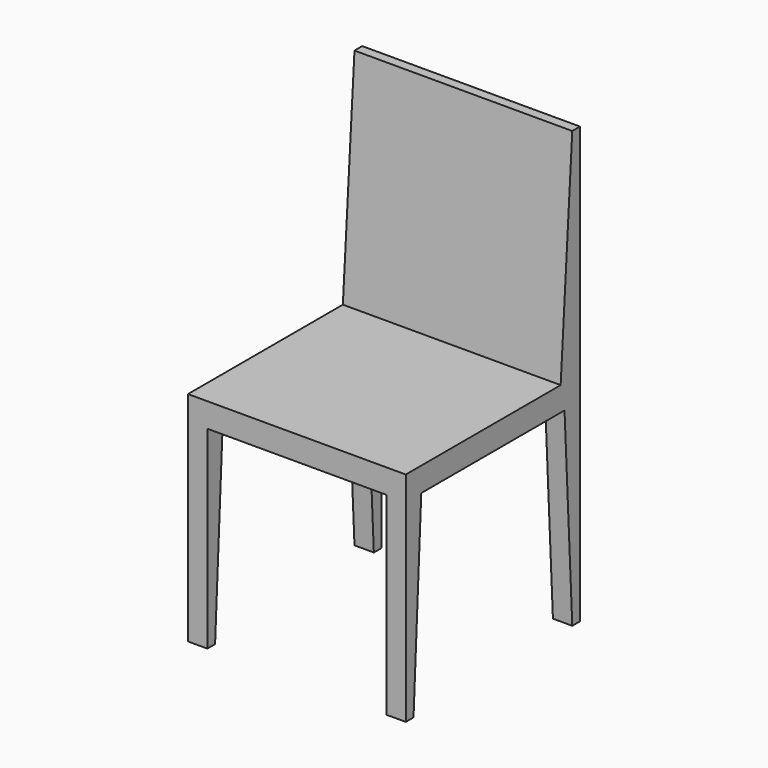
from build123d import *

# Parameters (mm, degrees)
F0_W      = 450
F0_H      = 450
F1_DEPTH  = 50
F2_W      = 40
F2_H      = 40
F3_DEPTH  = 400
F4_W      = 40
F4_H      = 40
F5_DEPTH  = 400
F6_W      = 40
F6_H      = 40
F7_DEPTH  = 400
F8_W      = 40
F8_H      = 40
F9_DEPTH  = 400
F10_W     = 450
F10_H     = 50
F11_DEPTH = 450
F13_DEPTH = 450
F15_DEPTH = 450.001
F17_DEPTH = 450.001
F18_DEPTH = 100
F19_DEPTH = 100
F20_DEPTH = 200
F21_DEPTH = 200


with BuildPart() as f1:
    # F0 (on Top) → F1 (new body)
    with BuildSketch(Plane.XY):
        with Locations((225, 225)):
            Rectangle(F0_W, F0_H)
    extrude(amount=F1_DEPTH)

    # F2 (on face) → F3 (join)
    with BuildSketch(Plane(origin=(0, 0, 0), x_dir=(1, 0, 0), z_dir=(0, 0, -1))):
        with Locations((20, -430)):
            Rectangle(F2_W, F2_H)
    extrude(amount=F3_DEPTH)

    # F4 (on face) → F5 (join)
    with BuildSketch(Plane(origin=(0, 0, 0), x_dir=(1, 0, 0), z_dir=(0, 0, -1))):
        with Locations((20, -20)):
            Rectangle(F4_W, F4_H)
    extrude(amount=F5_DEPTH)

    # F6 (on face) → F7 (join)
    with BuildSketch(Plane(origin=(0, 0, 0), x_dir=(1, 0, 0), z_dir=(0, 0, -1))):
        with Locations((430, -430)):
            Rectangle(F6_W, F6_H)
        with Locations((430, -430)):
            Rectangle(F6_W, F6_H)
    extrude(amount=F7_DEPTH)

    # F8 (on face) → F9 (join)
    with BuildSketch(Plane(origin=(0, 0, 0), x_dir=(1, 0, 0), z_dir=(0, 0, -1))):
        with Locations((430, -20)):
            Rectangle(F8_W, F8_H)
    extrude(amount=F9_DEPTH)

    # F10 (on face) → F11 (join)
    with BuildSketch(Plane.XY.offset(50)):
        with Locations((225, 425)):
            Rectangle(F10_W, F10_H)
    extrude(amount=F11_DEPTH)

    # F12 (on face) → F13 (cut)
    with BuildSketch(Plane.YZ.offset(450)):
        Polygon((400, 500), (400, 50), (430, 500), align=None)
    extrude(amount=-F13_DEPTH, mode=Mode.SUBTRACT)

    # F14 (on face) → F15 (cut, through all)
    with BuildSketch(Plane(origin=(0, 0, 0), x_dir=(0, -1, 0), z_dir=(-1, 0, 0))):
        Polygon((-410, -400), (-410, 0), (-430, -400), align=None)
    extrude(amount=-F15_DEPTH, mode=Mode.SUBTRACT)

    # F16 (on face) → F17 (cut, through all)
    with BuildSketch(Plane(origin=(0, 0, 0), x_dir=(0, -1, 0), z_dir=(-1, 0, 0))):
        Polygon((-20, -400), (-40, 0), (-40, -400), align=None)
    extrude(amount=-F17_DEPTH, mode=Mode.SUBTRACT)

    # F18 (add): a face of the model
    f18_faces = [f1.faces().sort_by_distance(p)[0] for p in [
        (225, 200, 50),
    ]]
    extrude(f18_faces, amount=F18_DEPTH)

    # F19 (cut): a face of the model
    f19_faces = [f1.faces().sort_by_distance(p)[0] for p in [
        (225, 200, 150),
    ]]
    extrude(f19_faces, amount=-F19_DEPTH, mode=Mode.SUBTRACT)

    # F20 (add): a face of the model
    f20_faces = [f1.faces().sort_by_distance(p)[0] for p in [
        (225, 200, 50),
    ]]
    extrude(f20_faces, amount=F20_DEPTH)

    # F21 (cut): a face of the model
    f21_faces = [f1.faces().sort_by_distance(p)[0] for p in [
        (225, 200, 250),
    ]]
    extrude(f21_faces, amount=-F21_DEPTH, mode=Mode.SUBTRACT)


solid = f1.part
